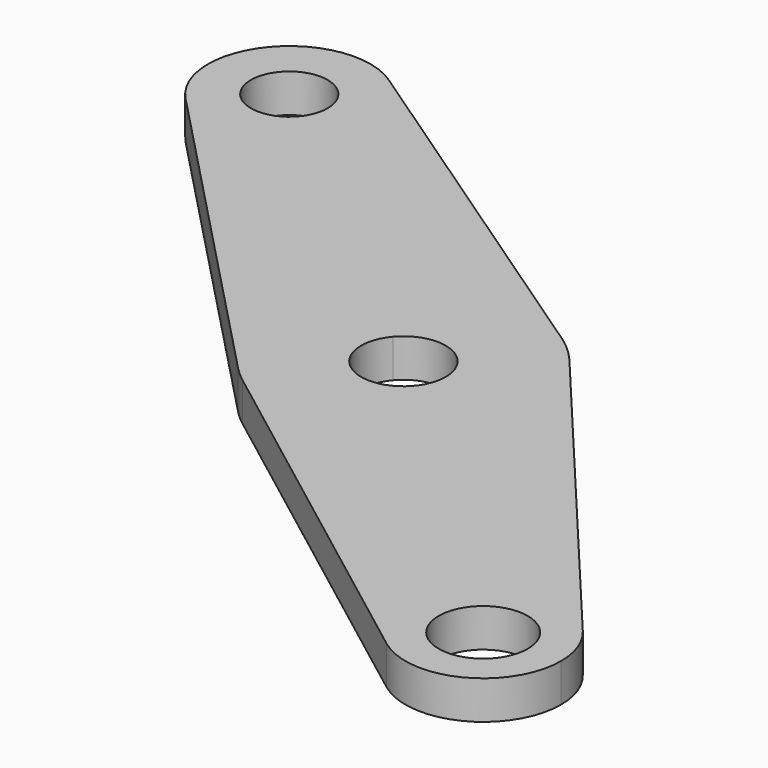
from build123d import *

# Parameters (mm, degrees)
F0_R     = 5.8001703578
F1_DEPTH = 5


with BuildPart() as f1:
    # F0 (on Top) → F1 (new body)
    with BuildSketch(Plane.XY):
        with BuildLine():
            ThreePointArc((-51.5878325652, 43.0670979278), (-43.6064509364, 39.8107528074), (-35.8466573247, 43.5646626824))
            ThreePointArc((-35.8466573247, 43.5646626824), (-33.9913764501, 46.7608427975), (-33.3468052575, 50.3998210098))
            ThreePointArc((-33.3468052575, 50.3998210098), (-34.5801317872, 55.3608197394), (-37.9929595743, 59.1667636721))
            ThreePointArc((-37.9929595743, 59.1667636721), (-52.0356668806, 57.2349793372), (-51.5878325652, 43.0670979278))
        make_face()
        with BuildLine():
            ThreePointArc((-40.1209657017, 47.1739723683), (-48.6369571368, 52.1172344713), (-38.9411621027, 50.3998210098))
            ThreePointArc((-38.9411621027, 50.3998210098), (-39.2453670685, 48.6824075484), (-40.1209657017, 47.1739723683))
        make_face(mode=Mode.SUBTRACT)
        with BuildLine():
            ThreePointArc((-33.3468052575, 50.3998210098), (-33.9913764501, 46.7608427975), (-35.8466573247, 43.5646626824))
            Line((-35.8466573247, 43.5646626824), (-11.0028552614, 22.586069771))
            ThreePointArc((-11.0028552614, 22.586069771), (-0.4004973799, 28.421312646), (11.3836651948, 25.6656703485))
            Line((11.3836651948, 25.6656703485), (-37.9929595743, 59.1667636721))
            ThreePointArc((-37.9929595743, 59.1667636721), (-34.5801317872, 55.3608197394), (-33.3468052575, 50.3998210098))
        make_face()
        with BuildLine():
            Line((-11.0028552614, 22.586069771), (-35.8466573247, 43.5646626824))
            ThreePointArc((-35.8466573247, 43.5646626824), (-43.6064509364, 39.8107528074), (-51.5878325652, 43.0670979278))
            Line((-51.5878325652, 43.0670979278), (-10.2889293891, 0))
            ThreePointArc((-10.2889293891, 0), (-14.9796236946, 11.1560494348), (-11.0028552614, 22.586069771))
        make_face()
        with BuildLine():
            ThreePointArc((11.3836651948, 25.6656703485), (-0.4004973799, 28.421312646), (-11.0028552614, 22.586069771))
            ThreePointArc((-11.0028552614, 22.586069771), (-14.9796236946, 11.1560494348), (-10.2889293891, 0))
            ThreePointArc((-10.2889293891, 0), (-9.3307459574, -0.923461232), (-8.3028313172, -1.7686166191))
            ThreePointArc((-8.3028313172, -1.7686166191), (9.4147958872, -3.4362525243), (18.7904441289, 11.6896373111))
            ThreePointArc((18.7904441289, 11.6896373111), (17.7735553067, 17.4615447103), (14.8453410404, 22.5384078277))
            ThreePointArc((14.8453410404, 22.5384078277), (13.2229979304, 24.2221357766), (11.3836651948, 25.6656703485))
        make_face()
        with BuildLine():
            ThreePointArc((7.4177247191, 11.6896373111), (0.0063621285, 6.5087384654), (-2.3136509097, 15.2487354792))
            ThreePointArc((-2.3136509097, 15.2487354792), (3.7960272887, 16.8705361568), (7.4177247191, 11.6896373111))
        make_face(mode=Mode.SUBTRACT)
        with BuildLine():
            ThreePointArc((18.7904441289, 11.6896373111), (9.4147958872, -3.4362525243), (-8.3028313172, -1.7686166191))
            Line((-8.3028313172, -1.7686166191), (39.4306997632, -37.9601014858))
            ThreePointArc((39.4306997632, -37.9601014858), (38.2144708977, -22.8923814768), (53.3235958963, -23.3716942143))
            Line((53.3235958963, -23.3716942143), (14.8453410404, 22.5384078277))
            ThreePointArc((14.8453410404, 22.5384078277), (17.7735553067, 17.4615447103), (18.7904441289, 11.6896373111))
        make_face()
        with BuildLine():
            ThreePointArc((53.3235958963, -23.3716942143), (38.2144708977, -22.8923814768), (39.4306997632, -37.9601014858))
            ThreePointArc((39.4306997632, -37.9601014858), (50.0643321154, -38.9609706715), (55.6913382216, -29.8828277773))
            ThreePointArc((55.6913382216, -29.8828277773), (55.0810295299, -26.4186877688), (53.3235958963, -23.3716942143))
        make_face()
        with Locations((45.5548754228, -29.8828277773)):
            Circle(F0_R, mode=Mode.SUBTRACT)
    extrude(amount=F1_DEPTH)


solid = f1.part
